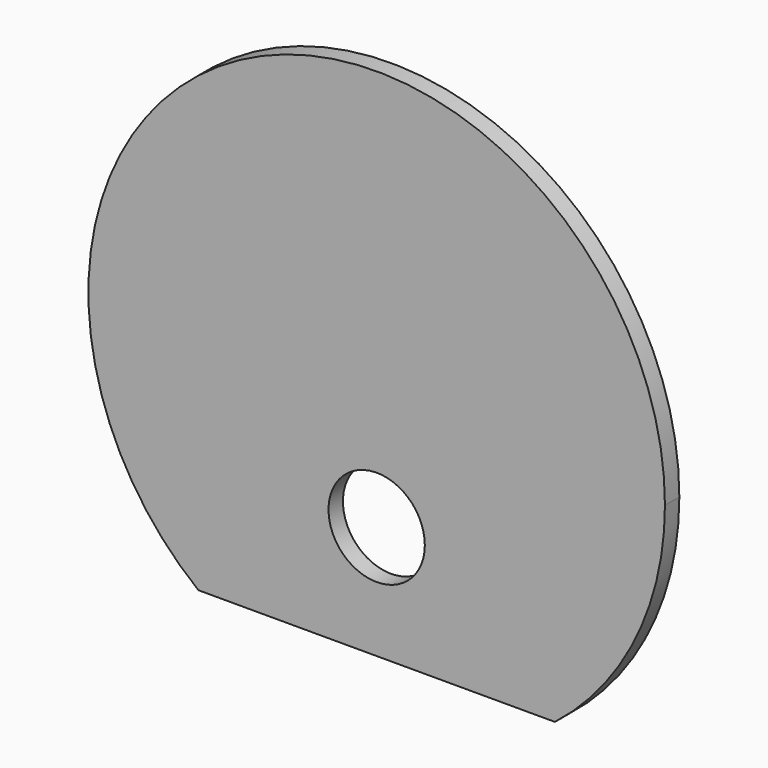
from build123d import *

# Parameters (mm, degrees)
F0_R     = 8.5
F0_R_2   = 5
F1_DEPTH = 3.175


with BuildPart() as f1:
    # F0 (on Front) → F1 (new body)
    with BuildSketch(Plane.XZ):
        with BuildLine():
            Line((-31.4690486828, -40), (0, -40))
            Line((0, -40), (31.4690486828, -40))
            ThreePointArc((31.4690486828, -40), (45.7816462008, -22.233800758), (50.895, 0))
            ThreePointArc((50.895, 0), (-22.233800758, 45.7816462008), (-31.4690486828, -40))
        make_face()
        with BuildLine():
            ThreePointArc((0, -40), (-28.2842712475, 28.2842712475), (40, 0))
            ThreePointArc((40, 0), (28.2842712475, -28.2842712475), (0, -40))
        make_face(mode=Mode.SUBTRACT)
        with BuildLine():
            ThreePointArc((0, -40), (28.2842712475, -28.2842712475), (40, 0))
            ThreePointArc((40, 0), (-28.2842712475, 28.2842712475), (0, -40))
        make_face()
        with Locations((0, -20)):
            Circle(F0_R, mode=Mode.SUBTRACT)
        Circle(F0_R_2, mode=Mode.SUBTRACT)
        Circle(F0_R_2)
    extrude(amount=F1_DEPTH)


solid = f1.part
